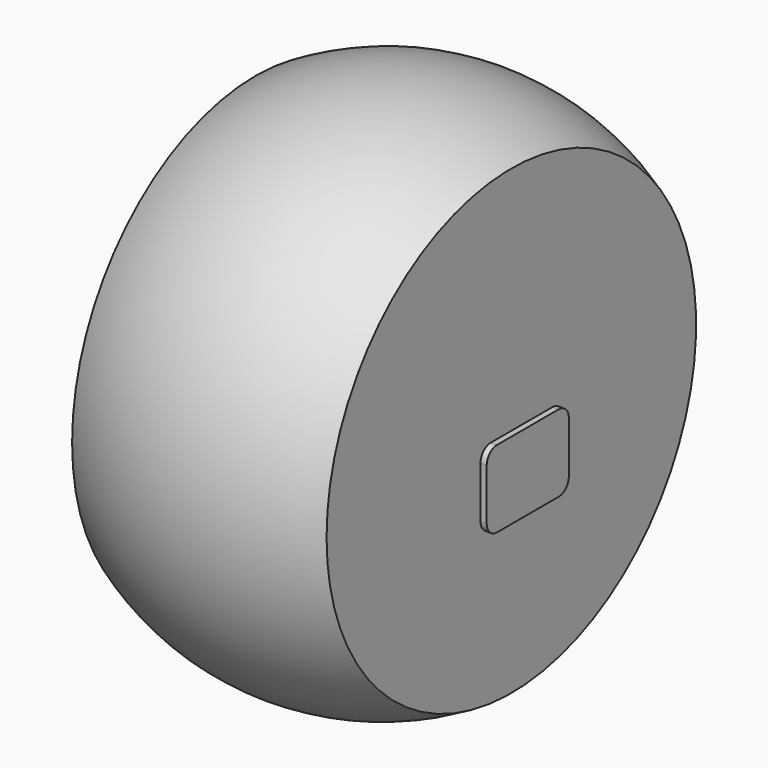
from build123d import *

# Parameters (mm, degrees)
EXTRUDE004_DEPTH = 100


with BuildPart() as extrude004:
    # Sketch → Extrude004 (new body)
    with BuildSketch(Plane.YZ):
        with BuildLine():
            Line((-10, 0), (20, 0))
            ThreePointArc((25, -5), (23.535534, -1.464466), (20, 0))
            Line((25, -5), (25, -25))
            ThreePointArc((20, -30), (23.535534, -28.535534), (25, -25))
            Line((20, -30), (-10, -30))
            ThreePointArc((-15, -25), (-13.535534, -28.535534), (-10, -30))
            Line((-15, -25), (-15, -5))
            ThreePointArc((-10, 0), (-13.535534, -1.464466), (-15, -5))
        make_face()
    extrude(amount=EXTRUDE004_DEPTH)


with BuildPart() as revolve_body:
    # Sketch001 → Revolve (revolve)
    with BuildSketch(Plane.XY):
        with BuildLine():
            ThreePointArc((-2.01338, -89.428729), (47.714962, -102.999517), (97.595688, -90))
            Line((97.595688, 0), (97.595688, -90))
            Line((97.295688, 0), (97.595688, 0))
            Line((97.295688, -89.772759), (97.295688, 0))
            ThreePointArc((-2.01338, -89.028729), (47.541868, -102.652858), (97.295688, -89.772759))
            Line((-2.01338, -89.428729), (-2.01338, -89.028729))
        make_face()
    revolve(axis=Axis((0, 0, 0), (1, 0, 0)))


solid = Compound([extrude004.part, revolve_body.part])
